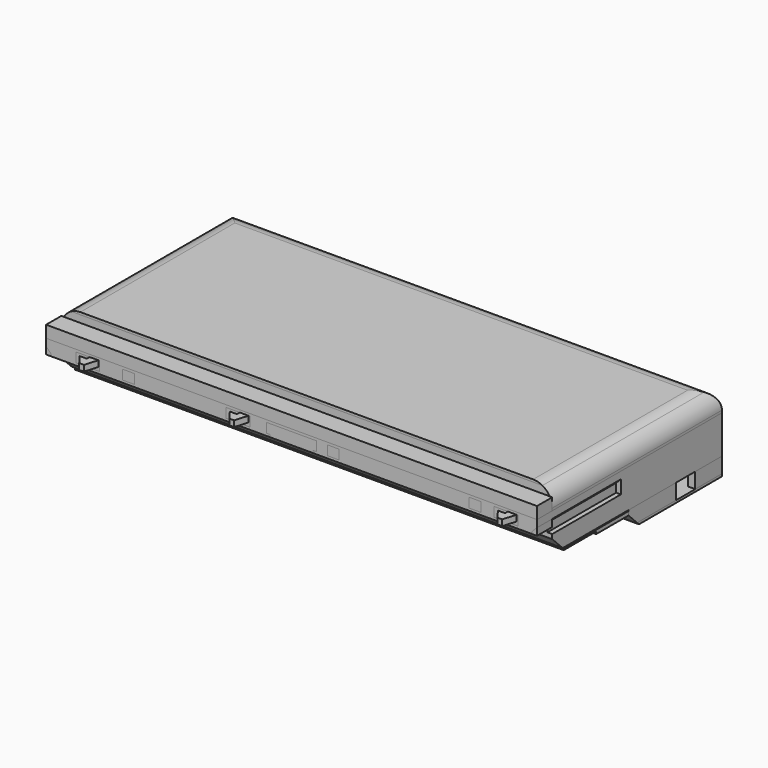
from build123d import *

# Parameters (mm, degrees)
BOX010_W               = 206
BOX010_H               = 8
BOX010_DEPTH           = 11
BOX030_W               = 28
BOX030_H               = 8
BOX030_DEPTH           = 5
BOX029_W               = 28
BOX029_H               = 7.5
BOX029_DEPTH           = 5
BOX017_W               = 5
BOX017_H               = 1.5
BOX017_DEPTH           = 5
BOX016_W               = 8
BOX016_H               = 1.5
BOX016_DEPTH           = 5
EXTRUDE002_DEPTH       = 2.5
EXTRUDE_DEPTH          = 2.5
EXTRUDE001_DEPTH       = 2.5
BOX015_W               = 179.5
BOX015_H               = 5
BOX015_DEPTH           = 3
FUSION_PLACEMENT_ANGLE = 180
BOX032_W               = 14
BOX032_H               = 3
BOX032_DEPTH           = 5
CHAMFER005_SIZE        = 2.9
BOX033_W               = 14
BOX033_H               = 3
BOX033_DEPTH           = 5
CHAMFER006_SIZE        = 2.8
BOX034_W               = 14
BOX034_H               = 3
BOX034_DEPTH           = 5
CHAMFER007_SIZE        = 2.8
BOX031_W               = 12.5
BOX031_H               = 4
BOX031_DEPTH           = 1
BOX026_W               = 200
BOX026_H               = 50
BOX026_DEPTH           = 4
BOX024_W               = 2
BOX024_H               = 44
BOX024_DEPTH           = 4.6
CHAMFER003_SIZE        = 1
BOX025_W               = 2
BOX025_H               = 44
BOX025_DEPTH           = 4.6
BOX001_W               = 2
BOX001_H               = 44
BOX001_DEPTH           = 4.6
CHAMFER001_SIZE        = 1
BOX023_W               = 2
BOX023_H               = 44
BOX023_DEPTH           = 4.6
BOX022_W               = 21
BOX022_H               = 1
BOX022_DEPTH           = 4
BOX021_W               = 0.8
BOX021_H               = 8
BOX021_DEPTH           = 5
BOX020_W               = 25
BOX020_H               = 24
BOX020_DEPTH           = 3
BOX012_W               = 10
BOX012_H               = 10.78
BOX012_DEPTH           = 4
BOX013_W               = 10
BOX013_H               = 10.78
BOX013_DEPTH           = 4
BOX011_W               = 10
BOX011_H               = 10.78
BOX011_DEPTH           = 4
BOX009_W               = 200
BOX009_H               = 50
BOX009_DEPTH           = 4
BOX008_W               = 200
BOX008_H               = 82
BOX008_DEPTH           = 16
BOX007_W               = 18
BOX007_H               = 60
BOX007_DEPTH           = 8
BOX005_W               = 5
BOX005_H               = 3
BOX005_DEPTH           = 4
BOX004_W               = 5
BOX004_H               = 3
BOX004_DEPTH           = 4
BOX006_W               = 5
BOX006_H               = 3
BOX006_DEPTH           = 4
BOX003_W               = 208
BOX003_H               = 8
BOX003_DEPTH           = 10
BOX002_W               = 2
BOX002_H               = 44
BOX002_DEPTH           = 4.6
BOX_W                  = 206
BOX_H                  = 97
BOX_DEPTH              = 16
CHAMFER_SIZE           = 5.5
CHAMFER002_SIZE        = 1
CHAMFER004_SIZE        = 1
BOX035_W               = 205
BOX035_H               = 17
BOX035_DEPTH           = 0.4
BOX036_W               = 205
BOX036_H               = 17
BOX036_DEPTH           = 1.6
BOX043_W               = 200
BOX043_H               = 46.7
BOX043_DEPTH           = 6.5
BOX044_W               = 206
BOX044_H               = 49
BOX044_DEPTH           = 7.5
CHAMFER011_SIZE        = 5.5
CHAMFER010_SIZE        = 5.5
BOX042_W               = 206
BOX042_H               = 49
BOX042_DEPTH           = 7.5
BOX047_W               = 206
BOX047_H               = 89
BOX047_DEPTH           = 9
BOX041_W               = 200
BOX041_H               = 86.7
BOX041_DEPTH           = 8
BOX040_W               = 206
BOX040_H               = 89
BOX040_DEPTH           = 9
FILLET_R               = 8
FILLET001_R            = 6
BOX046_W               = 206
BOX046_H               = 89
BOX046_DEPTH           = 9
BOX049_W               = 200
BOX049_H               = 86.7
BOX049_DEPTH           = 8
BOX048_W               = 206
BOX048_H               = 89
BOX048_DEPTH           = 9
FILLET002_R            = 8
FILLET003_R            = 6
BOX050_W               = 10.5
BOX050_H               = 10
BOX050_DEPTH           = 7
BOX045_W               = 206
BOX045_H               = 49
BOX045_DEPTH           = 7.5
BOX039_W               = 200
BOX039_H               = 46.7
BOX039_DEPTH           = 6.5
BOX038_W               = 206
BOX038_H               = 49
BOX038_DEPTH           = 7.5
CHAMFER008_SIZE        = 5.5
CHAMFER009_SIZE        = 5.5


with BuildPart() as cube010:
    # Box010 → Box010 (new body)
    with BuildSketch(Plane(origin=(-1, 0, 10), x_dir=(1, 0, 0), z_dir=(0, 0, 1))):
        with Locations((103, 4)):
            Rectangle(BOX010_W, BOX010_H)
    extrude(amount=BOX010_DEPTH)


with BuildPart() as cube030:
    # Box030 → Box030 (new body)
    with BuildSketch(Plane(origin=(92, -3, 10.5), x_dir=(1, 0, 0), z_dir=(0, 0, 1))):
        with Locations((14, 4)):
            Rectangle(BOX030_W, BOX030_H)
    extrude(amount=BOX030_DEPTH)


with BuildPart() as cube029:
    # Box029 → Box029 (new body)
    with BuildSketch(Plane(origin=(92, 4, 8.5), x_dir=(1, 0, 0), z_dir=(0, 0, 1))):
        with Locations((14, 3.75)):
            Rectangle(BOX029_W, BOX029_H)
    extrude(amount=BOX029_DEPTH)


with BuildPart() as cube017:
    # Box017 → Box017 (new body)
    with BuildSketch(Plane(origin=(197, 6, 11), x_dir=(0, 1, 0), z_dir=(0, 0, 1))):
        with Locations((2.5, 0.75)):
            Rectangle(BOX017_W, BOX017_H)
    extrude(amount=BOX017_DEPTH)


with BuildPart() as cube016:
    # Box016 → Box016 (new body)
    with BuildSketch(Plane(origin=(104, 4, 11), x_dir=(1, 0, 0), z_dir=(0, 0, 1))):
        with Locations((4, 0.75)):
            Rectangle(BOX016_W, BOX016_H)
    extrude(amount=BOX016_DEPTH)


with BuildPart() as extrude002:
    # Sketch → Extrude002 (new body)
    with BuildSketch(Plane.XY):
        Polygon((4, 6.592479), (2, 13.300683), (0, 13.300683), (-3, 9.300683), (0, 9.300683), (0, 6.592479), (0, 0), (4, 0), align=None)
    extrude(amount=EXTRUDE002_DEPTH)


with BuildPart() as extrude002_1:
    # Extrude002 placement: moved
    add(extrude002.part.moved(Location((151.3, -28.8, 0))))


with BuildPart() as extrude_body:
    # Sketch → Extrude (new body)
    with BuildSketch(Plane.XY):
        Polygon((4, 6.592479), (2, 13.300683), (0, 13.300683), (-3, 9.300683), (0, 9.300683), (0, 6.592479), (0, 0), (4, 0), align=None)
    extrude(amount=EXTRUDE_DEPTH)


with BuildPart() as extrude_body_1:
    # Extrude placement: moved
    add(extrude_body.part.moved(Location((-24.2, -28.8, 0))))


with BuildPart() as extrude001:
    # Sketch → Extrude001 (new body)
    with BuildSketch(Plane.XY):
        Polygon((4, 6.592479), (2, 13.300683), (0, 13.300683), (-3, 9.300683), (0, 9.300683), (0, 6.592479), (0, 0), (4, 0), align=None)
    extrude(amount=EXTRUDE001_DEPTH)


with BuildPart() as extrude001_1:
    # Extrude001 placement: moved
    add(extrude001.part.moved(Location((38.8, -28.8, 0))))


with BuildPart() as cut024:
    # Box015 → Box015 (new body)
    with BuildSketch(Plane(origin=(-24.2, -30, 0), x_dir=(1, 0, 0), z_dir=(0, 0, 1))):
        with Locations((89.75, 2.5)):
            Rectangle(BOX015_W, BOX015_H)
    extrude(amount=BOX015_DEPTH)

    # Fusion: union Extrude002, Extrude body, Extrude001
    add(extrude002_1.part)
    add(extrude_body_1.part)
    add(extrude001_1.part)


with BuildPart() as cut024_1:
    # Fusion placement: moved
    add(cut024.part.moved(Location((42.5, -21, 16))).rotate(Axis((42.5, -21, 16), (1, 0, 0)), FUSION_PLACEMENT_ANGLE))

    # Cut013: cut Cube016
    add(cube016.part, mode=Mode.SUBTRACT)


with BuildPart() as cut024_2:
    # Cut013 placement: moved
    add(cut024_1.part.moved(Location((0, 0, -1))))

    # Cut018: cut Cube017
    add(cube017.part, mode=Mode.SUBTRACT)

    # Cut023: cut Cube029
    add(cube029.part, mode=Mode.SUBTRACT)

    # Cut024: cut Cube030
    add(cube030.part, mode=Mode.SUBTRACT)


with BuildPart() as cut024_3:
    # Cut024 placement: moved
    add(cut024_2.part.moved(Location((-1, 0, 0))))


with BuildPart() as chamfer005:
    # Box032 → Box032 (new body)
    with BuildSketch(Plane(origin=(31, 9, 11), x_dir=(1, 0, 0), z_dir=(0, 0, 1))):
        with Locations((7, 1.5)):
            Rectangle(BOX032_W, BOX032_H)
    extrude(amount=BOX032_DEPTH)

    # Chamfer005
    chamfer005_edges = [chamfer005.edges().sort_by_distance(p)[0] for p in [
        (38, 12, 16),
    ]]
    chamfer(chamfer005_edges, length=CHAMFER005_SIZE)


with BuildPart() as chamfer006:
    # Box033 → Box033 (new body)
    with BuildSketch(Plane(origin=(114, 9, 11), x_dir=(1, 0, 0), z_dir=(0, 0, 1))):
        with Locations((7, 1.5)):
            Rectangle(BOX033_W, BOX033_H)
    extrude(amount=BOX033_DEPTH)

    # Chamfer006
    chamfer006_edges = [chamfer006.edges().sort_by_distance(p)[0] for p in [
        (121, 12, 16),
    ]]
    chamfer(chamfer006_edges, length=CHAMFER006_SIZE)


with BuildPart() as chamfer007:
    # Box034 → Box034 (new body)
    with BuildSketch(Plane(origin=(188, 9, 11), x_dir=(1, 0, 0), z_dir=(0, 0, 1))):
        with Locations((7, 1.5)):
            Rectangle(BOX034_W, BOX034_H)
    extrude(amount=BOX034_DEPTH)

    # Chamfer007
    chamfer007_edges = [chamfer007.edges().sort_by_distance(p)[0] for p in [
        (195, 12, 16),
    ]]
    chamfer(chamfer007_edges, length=CHAMFER007_SIZE)


with BuildPart() as cube031:
    # Box031 → Box031 (new body)
    with BuildSketch(Plane(origin=(48.5, 4, 15), x_dir=(1, 0, 0), z_dir=(0, 0, 1))):
        with Locations((6.25, 2)):
            Rectangle(BOX031_W, BOX031_H)
    extrude(amount=BOX031_DEPTH)


with BuildPart() as cube026:
    # Box026 → Box026 (new body)
    with BuildSketch(Plane(origin=(2, 8, 12), x_dir=(1, 0, 0), z_dir=(0, 0, 1))):
        with Locations((100, 25)):
            Rectangle(BOX026_W, BOX026_H)
    extrude(amount=BOX026_DEPTH)


with BuildPart() as chamfer003:
    # Box024 → Box024 (new body)
    with BuildSketch(Plane(origin=(203, 0, 7.4), x_dir=(1, 0, 0), z_dir=(0, 0, 1))):
        with Locations((1, 22)):
            Rectangle(BOX024_W, BOX024_H)
    extrude(amount=BOX024_DEPTH)

    # Chamfer003
    chamfer003_edges = [chamfer003.edges().sort_by_distance(p)[0] for p in [
        (203, 22, 12),
    ]]
    chamfer(chamfer003_edges, length=CHAMFER003_SIZE)


with BuildPart() as cut021:
    # Box025 → Box025 (new body)
    with BuildSketch(Plane(origin=(203, 0, 7.4), x_dir=(1, 0, 0), z_dir=(0, 0, 1))):
        with Locations((1, 22)):
            Rectangle(BOX025_W, BOX025_H)
    extrude(amount=BOX025_DEPTH)

    # Cut021: cut Chamfer003
    add(chamfer003.part, mode=Mode.SUBTRACT)


with BuildPart() as cube001:
    # Box001 → Box001 (new body)
    with BuildSketch(Plane(origin=(-1, 0, 7.4), x_dir=(1, 0, 0), z_dir=(0, 0, 1))):
        with Locations((1, 22)):
            Rectangle(BOX001_W, BOX001_H)
    extrude(amount=BOX001_DEPTH)


with BuildPart() as chamfer001:
    # Chamfer001 base: copy of Cube001
    add(cube001.part)

    # Chamfer001
    chamfer001_edges = [chamfer001.edges().sort_by_distance(p)[0] for p in [
        (1, 22, 12),
    ]]
    chamfer(chamfer001_edges, length=CHAMFER001_SIZE)


with BuildPart() as cut020:
    # Box023 → Box023 (new body)
    with BuildSketch(Plane(origin=(-1, 0, 7.4), x_dir=(1, 0, 0), z_dir=(0, 0, 1))):
        with Locations((1, 22)):
            Rectangle(BOX023_W, BOX023_H)
    extrude(amount=BOX023_DEPTH)

    # Cut020: cut Chamfer001
    add(chamfer001.part, mode=Mode.SUBTRACT)


with BuildPart() as cube022:
    # Box022 → Box022 (new body)
    with BuildSketch(Plane(origin=(91.5, 0, 11), x_dir=(1, 0, 0), z_dir=(0, 0, 1))):
        with Locations((10.5, 0.5)):
            Rectangle(BOX022_W, BOX022_H)
    extrude(amount=BOX022_DEPTH)


with BuildPart() as cube021:
    # Box021 → Box021 (new body)
    with BuildSketch(Plane(origin=(198, 0, 11), x_dir=(1, 0, 0), z_dir=(0, 0, 1))):
        with Locations((0.4, 4)):
            Rectangle(BOX021_W, BOX021_H)
    extrude(amount=BOX021_DEPTH)


with BuildPart() as cube020:
    # Box020 → Box020 (new body)
    with BuildSketch(Plane(origin=(90, 15, 0), x_dir=(1, 0, 0), z_dir=(0, 0, 1))):
        with Locations((12.5, 12)):
            Rectangle(BOX020_W, BOX020_H)
    extrude(amount=BOX020_DEPTH)


with BuildPart() as cube012:
    # Box012 → Box012 (new body)
    with BuildSketch(Plane(origin=(74.5, 0, 11), x_dir=(1, 0, 0), z_dir=(0, 0, 1))):
        with Locations((5, 5.39)):
            Rectangle(BOX012_W, BOX012_H)
    extrude(amount=BOX012_DEPTH)


with BuildPart() as cube013:
    # Box013 → Box013 (new body)
    with BuildSketch(Plane(origin=(187, 0, 11), x_dir=(1, 0, 0), z_dir=(0, 0, 1))):
        with Locations((5, 5.39)):
            Rectangle(BOX013_W, BOX013_H)
    extrude(amount=BOX013_DEPTH)


with BuildPart() as cube011:
    # Box011 → Box011 (new body)
    with BuildSketch(Plane(origin=(11.5, 0, 11), x_dir=(1, 0, 0), z_dir=(0, 0, 1))):
        with Locations((5, 5.39)):
            Rectangle(BOX011_W, BOX011_H)
    extrude(amount=BOX011_DEPTH)


with BuildPart() as cube009:
    # Box009 → Box009 (new body)
    with BuildSketch(Plane(origin=(2, 3, 11), x_dir=(1, 0, 0), z_dir=(0, 0, 1))):
        with Locations((100, 25)):
            Rectangle(BOX009_W, BOX009_H)
    extrude(amount=BOX009_DEPTH)


with BuildPart() as cube008:
    # Box008 → Box008 (new body)
    with BuildSketch(Plane(origin=(2, 13.7, 0), x_dir=(1, 0, 0), z_dir=(0, 0, 1))):
        with Locations((100, 41)):
            Rectangle(BOX008_W, BOX008_H)
    extrude(amount=BOX008_DEPTH)


with BuildPart() as cube007:
    # Box007 → Box007 (new body)
    with BuildSketch(Plane(origin=(93, 0, 7), x_dir=(1, 0, 0), z_dir=(0, 0, 1))):
        with Locations((9, 30)):
            Rectangle(BOX007_W, BOX007_H)
    extrude(amount=BOX007_DEPTH)


with BuildPart() as cube005:
    # Box005 → Box005 (new body)
    with BuildSketch(Plane(origin=(176.5, 0, 11), x_dir=(1, 0, 0), z_dir=(0, 0, 1))):
        with Locations((2.5, 1.5)):
            Rectangle(BOX005_W, BOX005_H)
    extrude(amount=BOX005_DEPTH)


with BuildPart() as cube004:
    # Box004 → Box004 (new body)
    with BuildSketch(Plane(origin=(31, 0, 11), x_dir=(1, 0, 0), z_dir=(0, 0, 1))):
        with Locations((2.5, 1.5)):
            Rectangle(BOX004_W, BOX004_H)
    extrude(amount=BOX004_DEPTH)


with BuildPart() as cube006:
    # Box006 → Box006 (new body)
    with BuildSketch(Plane(origin=(117, 0, 11), x_dir=(1, 0, 0), z_dir=(0, 0, 1))):
        with Locations((2.5, 1.5)):
            Rectangle(BOX006_W, BOX006_H)
    extrude(amount=BOX006_DEPTH)


with BuildPart() as cube003:
    # Box003 → Box003 (new body)
    with BuildSketch(Plane(origin=(-2, 0, 0), x_dir=(1, 0, 0), z_dir=(0, 0, 1))):
        with Locations((104, 4)):
            Rectangle(BOX003_W, BOX003_H)
    extrude(amount=BOX003_DEPTH)


with BuildPart() as cube002:
    # Box002 → Box002 (new body)
    with BuildSketch(Plane(origin=(203, 0, 7.4), x_dir=(1, 0, 0), z_dir=(0, 0, 1))):
        with Locations((1, 22)):
            Rectangle(BOX002_W, BOX002_H)
    extrude(amount=BOX002_DEPTH)


with BuildPart() as fusion004:
    # Box → Box (new body)
    with BuildSketch(Plane(origin=(-1, 0, 0), x_dir=(1, 0, 0), z_dir=(0, 0, 1))):
        with Locations((103, 48.5)):
            Rectangle(BOX_W, BOX_H)
    extrude(amount=BOX_DEPTH)

    # Cut: cut Cube001
    add(cube001.part, mode=Mode.SUBTRACT)

    # Cut001: cut Cube002
    add(cube002.part, mode=Mode.SUBTRACT)

    # Cut002: cut Cube003
    add(cube003.part, mode=Mode.SUBTRACT)

    # Cut003: cut Cube006
    add(cube006.part, mode=Mode.SUBTRACT)

    # Cut004: cut Cube004
    add(cube004.part, mode=Mode.SUBTRACT)

    # Cut005: cut Cube005
    add(cube005.part, mode=Mode.SUBTRACT)

    # Cut006: cut Cube007
    add(cube007.part, mode=Mode.SUBTRACT)

    # Cut007: cut Cube008
    add(cube008.part, mode=Mode.SUBTRACT)

    # Cut008: cut Cube009
    add(cube009.part, mode=Mode.SUBTRACT)

    # Cut009: cut Cube011
    add(cube011.part, mode=Mode.SUBTRACT)

    # Cut010: cut Cube013
    add(cube013.part, mode=Mode.SUBTRACT)

    # Cut011: cut Cube012
    add(cube012.part, mode=Mode.SUBTRACT)

    # Chamfer
    chamfer_edges = [fusion004.edges().sort_by_distance(p)[0] for p in [
        (102, 8, 0),
    ]]
    chamfer(chamfer_edges, length=CHAMFER_SIZE)

    # Cut017: cut Cube020
    add(cube020.part, mode=Mode.SUBTRACT)

    # Fusion001: union Cube021
    add(cube021.part)

    # Cut019: cut Cube022
    add(cube022.part, mode=Mode.SUBTRACT)

    # Chamfer002
    chamfer002_edges = [fusion004.edges().sort_by_distance(p)[0] for p in [
        (-1, 22, 12),
    ]]
    chamfer(chamfer002_edges, length=CHAMFER002_SIZE)

    # Fusion002: union Cut020
    add(cut020.part)

    # Chamfer004
    chamfer004_edges = [fusion004.edges().sort_by_distance(p)[0] for p in [
        (205, 22, 12),
    ]]
    chamfer(chamfer004_edges, length=CHAMFER004_SIZE)

    # Fusion003: union Cut021
    add(cut021.part)

    # Cut022: cut Cube026
    add(cube026.part, mode=Mode.SUBTRACT)

    # Cut025: cut Cube031
    add(cube031.part, mode=Mode.SUBTRACT)

    # Fusion004: union Chamfer005, Chamfer006, Chamfer007
    add(chamfer005.part)
    add(chamfer006.part)
    add(chamfer007.part)


with BuildPart() as cube035:
    # Box035 → Box035 (new body)
    with BuildSketch(Plane(origin=(0, 14, -1), x_dir=(1, 0, 0), z_dir=(0, 0, 1))):
        with Locations((102.5, 8.5)):
            Rectangle(BOX035_W, BOX035_H)
    extrude(amount=BOX035_DEPTH)


with BuildPart() as cube036:
    # Box036 → Box036 (new body)
    with BuildSketch(Plane(origin=(0, 31, -2), x_dir=(1, 0, 0), z_dir=(0, 0, 1))):
        with Locations((102.5, 8.5)):
            Rectangle(BOX036_W, BOX036_H)
    extrude(amount=BOX036_DEPTH)


with BuildPart() as cube043:
    # Box043 → Box043 (new body)
    with BuildSketch(Plane(origin=(2, 48, -3), x_dir=(1, 0, 0), z_dir=(0, 0, 1))):
        with Locations((100, 23.35)):
            Rectangle(BOX043_W, BOX043_H)
    extrude(amount=BOX043_DEPTH)


with BuildPart() as chamfer010:
    # Box044 → Box044 (new body)
    with BuildSketch(Plane(origin=(-1, 47, -4), x_dir=(1, 0, 0), z_dir=(0, 0, 1))):
        with Locations((103, 24.5)):
            Rectangle(BOX044_W, BOX044_H)
    extrude(amount=BOX044_DEPTH)

    # Cut028: cut Cube043
    add(cube043.part, mode=Mode.SUBTRACT)


with BuildPart() as chamfer010_1:
    # Cut028 placement: moved
    add(chamfer010.part.moved(Location((0, 1, -3.5))))

    # Chamfer011
    chamfer011_edges = [chamfer010_1.edges().sort_by_distance(p)[0] for p in [
        (102, 48, -7.5),
    ]]
    chamfer(chamfer011_edges, length=CHAMFER011_SIZE)

    # Chamfer010
    chamfer010_edges = [chamfer010_1.edges().sort_by_distance(p)[0] for p in [
        (102, 49, -6.5),
    ]]
    chamfer(chamfer010_edges, length=CHAMFER010_SIZE)


with BuildPart() as common:
    # Box042 → Box042 (new body)
    with BuildSketch(Plane(origin=(-1, 48, -14), x_dir=(1, 0, 0), z_dir=(0, 0, 1))):
        with Locations((103, 24.5)):
            Rectangle(BOX042_W, BOX042_H)
    extrude(amount=BOX042_DEPTH)

    # Common: intersect Chamfer010
    add(chamfer010_1.part, mode=Mode.INTERSECT)


with BuildPart() as cube047:
    # Box047 → Box047 (new body)
    with BuildSketch(Plane(origin=(-1, 8, 24), x_dir=(1, 0, 0), z_dir=(0, 0, 1))):
        with Locations((103, 44.5)):
            Rectangle(BOX047_W, BOX047_H)
    extrude(amount=BOX047_DEPTH)


with BuildPart() as cube041:
    # Box041 → Box041 (new body)
    with BuildSketch(Plane(origin=(2, 52, -3), x_dir=(1, 0, 0), z_dir=(0, 0, 1))):
        with Locations((100, 43.35)):
            Rectangle(BOX041_W, BOX041_H)
    extrude(amount=BOX041_DEPTH)


with BuildPart() as cut031:
    # Box040 → Box040 (new body)
    with BuildSketch(Plane(origin=(-1, 51, -3), x_dir=(1, 0, 0), z_dir=(0, 0, 1))):
        with Locations((103, 44.5)):
            Rectangle(BOX040_W, BOX040_H)
    extrude(amount=BOX040_DEPTH)

    # Cut027: cut Cube041
    add(cube041.part, mode=Mode.SUBTRACT)


with BuildPart() as cut031_1:
    # Cut027 placement: moved
    add(cut031.part.moved(Location((0, -43, 19))))

    # Fillet
    fillet_edges = [cut031_1.edges().sort_by_distance(p)[0] for p in [
        (-1, 52.5, 25),
        (102, 97, 25),
        (205, 52.5, 25),
    ]]
    fillet(fillet_edges, radius=FILLET_R)

    # Fillet001
    fillet001_edges = [cut031_1.edges().sort_by_distance(p)[0] for p in [
        (2, 52.35, 24),
        (202, 52.35, 24),
        (102, 95.7, 24),
    ]]
    fillet(fillet001_edges, radius=FILLET001_R)

    # Cut031: cut Cube047
    add(cube047.part, mode=Mode.SUBTRACT)


with BuildPart() as cube046:
    # Box046 → Box046 (new body)
    with BuildSketch(Plane(origin=(-1, 8, 24), x_dir=(1, 0, 0), z_dir=(0, 0, 1))):
        with Locations((103, 44.5)):
            Rectangle(BOX046_W, BOX046_H)
    extrude(amount=BOX046_DEPTH)


with BuildPart() as cube049:
    # Box049 → Box049 (new body)
    with BuildSketch(Plane(origin=(2, 52, -3), x_dir=(1, 0, 0), z_dir=(0, 0, 1))):
        with Locations((100, 43.35)):
            Rectangle(BOX049_W, BOX049_H)
    extrude(amount=BOX049_DEPTH)


with BuildPart() as common001:
    # Box048 → Box048 (new body)
    with BuildSketch(Plane(origin=(-1, 51, -3), x_dir=(1, 0, 0), z_dir=(0, 0, 1))):
        with Locations((103, 44.5)):
            Rectangle(BOX048_W, BOX048_H)
    extrude(amount=BOX048_DEPTH)

    # Cut030: cut Cube049
    add(cube049.part, mode=Mode.SUBTRACT)


with BuildPart() as common001_1:
    # Cut030 placement: moved
    add(common001.part.moved(Location((0, -43, 19))))

    # Fillet002
    fillet002_edges = [common001_1.edges().sort_by_distance(p)[0] for p in [
        (-1, 52.5, 25),
        (102, 97, 25),
        (205, 52.5, 25),
    ]]
    fillet(fillet002_edges, radius=FILLET002_R)

    # Fillet003
    fillet003_edges = [common001_1.edges().sort_by_distance(p)[0] for p in [
        (2, 52.35, 24),
        (202, 52.35, 24),
        (102, 95.7, 24),
    ]]
    fillet(fillet003_edges, radius=FILLET003_R)

    # Common001: intersect Cube046
    add(cube046.part, mode=Mode.INTERSECT)


with BuildPart() as cube050:
    # Box050 → Box050 (new body)
    with BuildSketch(Plane(origin=(196, 73, -7), x_dir=(1, 0, 0), z_dir=(0, 0, 1))):
        with Locations((5.25, 5)):
            Rectangle(BOX050_W, BOX050_H)
    extrude(amount=BOX050_DEPTH)


with BuildPart() as cube045:
    # Box045 → Box045 (new body)
    with BuildSketch(Plane(origin=(-1, 48, -14), x_dir=(1, 0, 0), z_dir=(0, 0, 1))):
        with Locations((103, 24.5)):
            Rectangle(BOX045_W, BOX045_H)
    extrude(amount=BOX045_DEPTH)


with BuildPart() as cube039:
    # Box039 → Box039 (new body)
    with BuildSketch(Plane(origin=(2, 48, -3), x_dir=(1, 0, 0), z_dir=(0, 0, 1))):
        with Locations((100, 23.35)):
            Rectangle(BOX039_W, BOX039_H)
    extrude(amount=BOX039_DEPTH)


with BuildPart() as cut032:
    # Box038 → Box038 (new body)
    with BuildSketch(Plane(origin=(-1, 47, -4), x_dir=(1, 0, 0), z_dir=(0, 0, 1))):
        with Locations((103, 24.5)):
            Rectangle(BOX038_W, BOX038_H)
    extrude(amount=BOX038_DEPTH)

    # Cut026: cut Cube039
    add(cube039.part, mode=Mode.SUBTRACT)


with BuildPart() as cut032_1:
    # Cut026 placement: moved
    add(cut032.part.moved(Location((0, 1, -3.5))))

    # Chamfer008
    chamfer008_edges = [cut032_1.edges().sort_by_distance(p)[0] for p in [
        (102, 48, -7.5),
    ]]
    chamfer(chamfer008_edges, length=CHAMFER008_SIZE)

    # Chamfer009
    chamfer009_edges = [cut032_1.edges().sort_by_distance(p)[0] for p in [
        (102, 49, -6.5),
    ]]
    chamfer(chamfer009_edges, length=CHAMFER009_SIZE)

    # Cut029: cut Cube045
    add(cube045.part, mode=Mode.SUBTRACT)

    # Cut032: cut Cube050
    add(cube050.part, mode=Mode.SUBTRACT)


solid = Compound([cube010.part, cut024_3.part, fusion004.part, cube035.part, cube036.part, common.part, cut031_1.part, common001_1.part, cut032_1.part])
